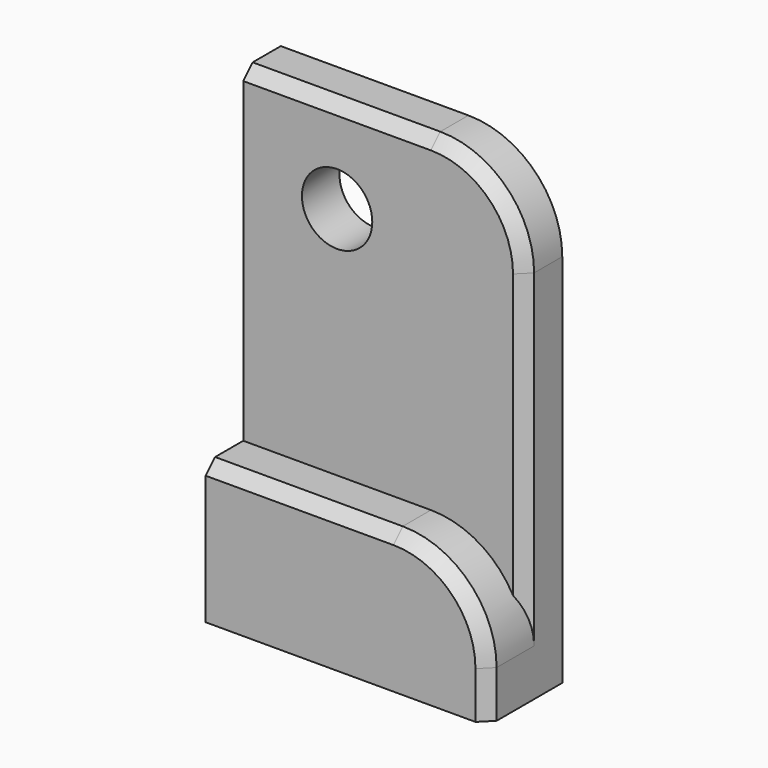
from build123d import *

# Parameters (mm, degrees)
F0_W     = 30
F0_H     = 50
F1_DEPTH = 5
F2_W     = 30
F2_H     = 15
F3_DEPTH = 5
F4_R     = 3.75
F5_DEPTH = 5.001
F6_R     = 10
F7_SIZE  = 1.25
F8_T     = -0.6


with BuildPart() as f1:
    # F0 (on Front) → F1 (new body)
    with BuildSketch(Plane.XZ):
        with Locations((15, 25)):
            Rectangle(F0_W, F0_H)
    extrude(amount=F1_DEPTH)

    # F2 (on face) → F3 (join)
    with BuildSketch(Plane.XZ.offset(5)):
        with Locations((15, 7.5)):
            Rectangle(F2_W, F2_H)
    extrude(amount=F3_DEPTH)

    # F4 (on face) → F5 (cut, through all)
    with BuildSketch(Plane.XZ.offset(5)):
        with Locations((10, 40)):
            Circle(F4_R)
    extrude(amount=-F5_DEPTH, mode=Mode.SUBTRACT)

    # F6
    f6_edges = [f1.edges().sort_by_distance(p)[0] for p in [
        (30, -2.5, 50),
        (30, -7.5, 15),
    ]]
    fillet(f6_edges, radius=F6_R)

    # F7
    f7_edges = [f1.edges().sort_by_distance(p)[0] for p in [
        (10, -5, 50),
        (10, -10, 15),
    ]]
    chamfer(f7_edges, length=F7_SIZE)

    # F8
    f8_openings = [f1.faces().sort_by_distance(p)[0] for p in [
        (14.961923, -4.988033, 0),
        (0, -3.637279, 20.90781),
        (14.962998, 0, 24.197378),
    ]]
    offset(amount=F8_T, openings=f8_openings, kind=Kind.INTERSECTION)


solid = f1.part
